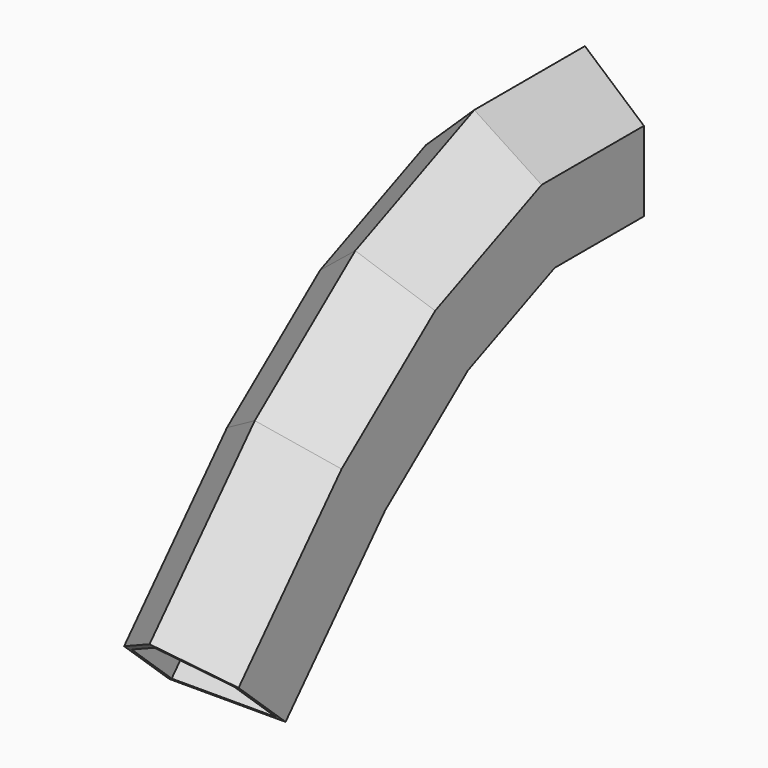
from build123d import *

# Parameters (mm, degrees)
F3_T = -1


with BuildPart() as f2:
    # F2: sweep along a path in F1
    with BuildLine(Plane.YZ) as f2_path:
        Line((0, 0), (-18.5606069863, 0))
        Line((-18.5606069863, 0), (-36.590911448, -7.6893945225))
        Line((-36.590911448, -7.6893945225), (-53.8257583976, -21.2121233344))
        Line((-53.8257583976, -21.2121233344), (-74.5075792074, -43.7500029802))
    # F0 (on Front) → F2 (sweep)
    with BuildSketch(Plane.XZ):
        Polygon((0, 12.7272736281), (0, 0), (9.5454547554, 0), (19.3560617045, 0), (19.3560617045, 13.2575752214), (9.5454547554, 21.742425859), align=None)
    sweep(path=f2_path.line, transition=Transition.RIGHT)

    # F3
    f3_openings = [f2.faces().sort_by_distance(p)[0] for p in [
        (9.716142, 0, 8.868807),
        (9.716142, -81.042065, -37.753651),
    ]]
    offset(amount=F3_T, openings=f3_openings, kind=Kind.INTERSECTION)


solid = f2.part
